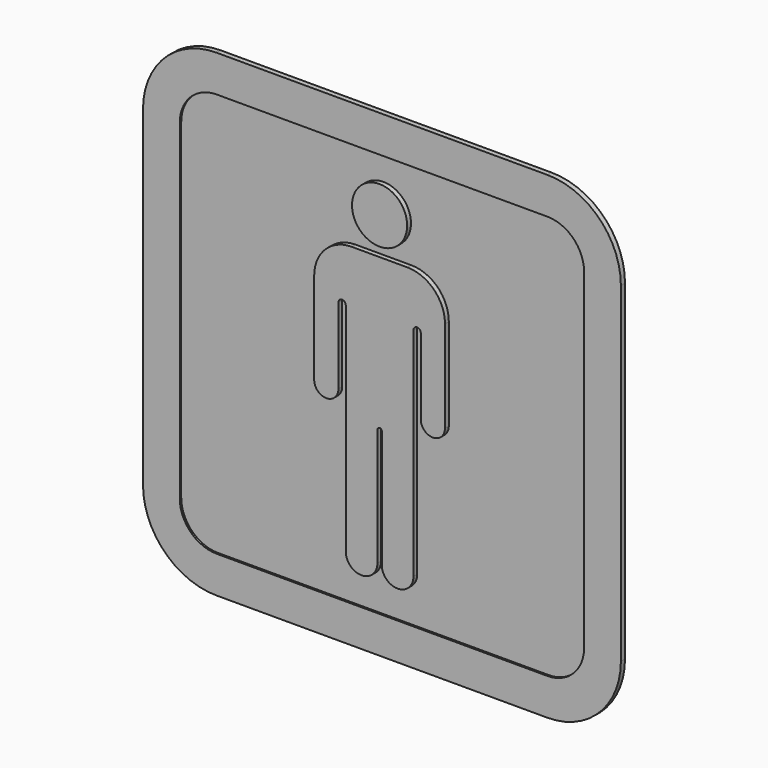
from build123d import *

# Parameters (mm, degrees)
F1_DEPTH = 0.9
F2_DEPTH = 0.5
F3_DEPTH = 1.3


with BuildPart() as f1:
    # F0 (on Front) → F1 (new body)
    with BuildSketch(Plane.XZ):
        with BuildLine():
            ThreePointArc((0, 20), (5.857864, 5.857864), (20, 0))
            Line((20, 0), (65, 0))
            Line((65, 0), (110, 0))
            ThreePointArc((110, 0), (124.142136, 5.857864), (130, 20))
            Line((130, 20), (130, 110))
            ThreePointArc((130, 110), (124.142136, 124.142136), (110, 130))
            Line((110, 130), (65, 130))
            Line((65, 130), (20, 130))
            ThreePointArc((20, 130), (5.857864, 124.142136), (0, 110))
            Line((0, 110), (0, 20))
        make_face()
        with BuildLine():
            Line((65, 120), (110, 120))
            ThreePointArc((110, 120), (117.071068, 117.071068), (120, 110))
            Line((120, 110), (120, 20))
            ThreePointArc((120, 20), (117.071068, 12.928932), (110, 10))
            Line((110, 10), (65, 10))
            Line((65, 10), (20, 10))
            ThreePointArc((20, 10), (12.928932, 12.928932), (10, 20))
            Line((10, 20), (10, 110))
            ThreePointArc((10, 110), (12.928932, 117.071068), (20, 120))
            Line((20, 120), (65, 120))
        make_face(mode=Mode.SUBTRACT)
        with BuildLine():
            ThreePointArc((120, 110), (117.071068, 117.071068), (110, 120))
            Line((110, 120), (65, 120))
            Line((65, 120), (20, 120))
            ThreePointArc((20, 120), (12.928932, 117.071068), (10, 110))
            Line((10, 110), (10, 20))
            ThreePointArc((10, 20), (12.928932, 12.928932), (20, 10))
            Line((20, 10), (65, 10))
            Line((65, 10), (110, 10))
            ThreePointArc((110, 10), (117.071068, 12.928932), (120, 20))
            Line((120, 20), (120, 110))
        make_face()
        with BuildLine():
            ThreePointArc((47.212271, 85.792594), (50.201951, 93.01032), (57.419677, 96))
            Line((57.419677, 96), (65, 96))
            Line((65, 96), (72.580323, 96))
            ThreePointArc((72.580323, 96), (79.798049, 93.01032), (82.787729, 85.792594))
            Line((82.787729, 85.792594), (82.787729, 60.792594))
            ThreePointArc((82.787729, 60.792594), (79.493864, 57.498729), (76.2, 60.792594))
            Line((76.2, 60.792594), (76.2, 81.5))
            ThreePointArc((76.2, 81.5), (75.2, 82.5), (74.2, 81.5))
            Line((74.2, 81.5), (74.2, 22.5))
            ThreePointArc((74.2, 22.5), (69.9, 18.2), (65.6, 22.5))
            Line((65.6, 22.5), (65.6, 54.5))
            ThreePointArc((65.6, 54.5), (65.424264, 54.924264), (65, 55.1))
            ThreePointArc((65, 55.1), (64.575736, 54.924264), (64.4, 54.5))
            Line((64.4, 54.5), (64.4, 22.5))
            ThreePointArc((64.4, 22.5), (60.1, 18.2), (55.8, 22.5))
            Line((55.8, 22.5), (55.8, 81.5))
            ThreePointArc((55.8, 81.5), (54.8, 82.5), (53.8, 81.5))
            Line((53.8, 81.5), (53.8, 60.792594))
            ThreePointArc((53.8, 60.792594), (50.506136, 57.498729), (47.212271, 60.792594))
            Line((47.212271, 60.792594), (47.212271, 85.792594))
        make_face(mode=Mode.SUBTRACT)
        with BuildLine():
            ThreePointArc((65, 98.5), (57.5, 106), (65, 113.5))
            ThreePointArc((65, 113.5), (72.5, 106), (65, 98.5))
        make_face(mode=Mode.SUBTRACT)
        with BuildLine():
            Line((65, 96), (57.419677, 96))
            ThreePointArc((57.419677, 96), (50.201951, 93.01032), (47.212271, 85.792594))
            Line((47.212271, 85.792594), (47.212271, 60.792594))
            ThreePointArc((47.212271, 60.792594), (50.506136, 57.498729), (53.8, 60.792594))
            Line((53.8, 60.792594), (53.8, 81.5))
            ThreePointArc((53.8, 81.5), (54.8, 82.5), (55.8, 81.5))
            Line((55.8, 81.5), (55.8, 22.5))
            ThreePointArc((55.8, 22.5), (60.1, 18.2), (64.4, 22.5))
            Line((64.4, 22.5), (64.4, 54.5))
            ThreePointArc((64.4, 54.5), (64.575736, 54.924264), (65, 55.1))
            ThreePointArc((65, 55.1), (65.424264, 54.924264), (65.6, 54.5))
            Line((65.6, 54.5), (65.6, 22.5))
            ThreePointArc((65.6, 22.5), (69.9, 18.2), (74.2, 22.5))
            Line((74.2, 22.5), (74.2, 81.5))
            ThreePointArc((74.2, 81.5), (75.2, 82.5), (76.2, 81.5))
            Line((76.2, 81.5), (76.2, 60.792594))
            ThreePointArc((76.2, 60.792594), (79.493864, 57.498729), (82.787729, 60.792594))
            Line((82.787729, 60.792594), (82.787729, 85.792594))
            ThreePointArc((82.787729, 85.792594), (79.798049, 93.01032), (72.580323, 96))
            Line((72.580323, 96), (65, 96))
        make_face()
        with BuildLine():
            ThreePointArc((65, 98.5), (72.5, 106), (65, 113.5))
            ThreePointArc((65, 113.5), (57.5, 106), (65, 98.5))
        make_face()
    extrude(amount=-F1_DEPTH)

    # F0 (on Front) → F2 (join)
    with BuildSketch(Plane.XZ):
        with BuildLine():
            ThreePointArc((0, 20), (5.857864, 5.857864), (20, 0))
            Line((20, 0), (65, 0))
            Line((65, 0), (110, 0))
            ThreePointArc((110, 0), (124.142136, 5.857864), (130, 20))
            Line((130, 20), (130, 110))
            ThreePointArc((130, 110), (124.142136, 124.142136), (110, 130))
            Line((110, 130), (65, 130))
            Line((65, 130), (20, 130))
            ThreePointArc((20, 130), (5.857864, 124.142136), (0, 110))
            Line((0, 110), (0, 20))
        make_face()
        with BuildLine():
            Line((65, 120), (110, 120))
            ThreePointArc((110, 120), (117.071068, 117.071068), (120, 110))
            Line((120, 110), (120, 20))
            ThreePointArc((120, 20), (117.071068, 12.928932), (110, 10))
            Line((110, 10), (65, 10))
            Line((65, 10), (20, 10))
            ThreePointArc((20, 10), (12.928932, 12.928932), (10, 20))
            Line((10, 20), (10, 110))
            ThreePointArc((10, 110), (12.928932, 117.071068), (20, 120))
            Line((20, 120), (65, 120))
        make_face(mode=Mode.SUBTRACT)
    extrude(amount=F2_DEPTH)

    # F0 (on Front) → F3 (join)
    with BuildSketch(Plane.XZ):
        with BuildLine():
            ThreePointArc((65, 98.5), (72.5, 106), (65, 113.5))
            ThreePointArc((65, 113.5), (57.5, 106), (65, 98.5))
        make_face()
        with BuildLine():
            Line((65, 96), (57.419677, 96))
            ThreePointArc((57.419677, 96), (50.201951, 93.01032), (47.212271, 85.792594))
            Line((47.212271, 85.792594), (47.212271, 60.792594))
            ThreePointArc((47.212271, 60.792594), (50.506136, 57.498729), (53.8, 60.792594))
            Line((53.8, 60.792594), (53.8, 81.5))
            ThreePointArc((53.8, 81.5), (54.8, 82.5), (55.8, 81.5))
            Line((55.8, 81.5), (55.8, 22.5))
            ThreePointArc((55.8, 22.5), (60.1, 18.2), (64.4, 22.5))
            Line((64.4, 22.5), (64.4, 54.5))
            ThreePointArc((64.4, 54.5), (64.575736, 54.924264), (65, 55.1))
            ThreePointArc((65, 55.1), (65.424264, 54.924264), (65.6, 54.5))
            Line((65.6, 54.5), (65.6, 22.5))
            ThreePointArc((65.6, 22.5), (69.9, 18.2), (74.2, 22.5))
            Line((74.2, 22.5), (74.2, 81.5))
            ThreePointArc((74.2, 81.5), (75.2, 82.5), (76.2, 81.5))
            Line((76.2, 81.5), (76.2, 60.792594))
            ThreePointArc((76.2, 60.792594), (79.493864, 57.498729), (82.787729, 60.792594))
            Line((82.787729, 60.792594), (82.787729, 85.792594))
            ThreePointArc((82.787729, 85.792594), (79.798049, 93.01032), (72.580323, 96))
            Line((72.580323, 96), (65, 96))
        make_face()
    extrude(amount=F3_DEPTH)


solid = f1.part
